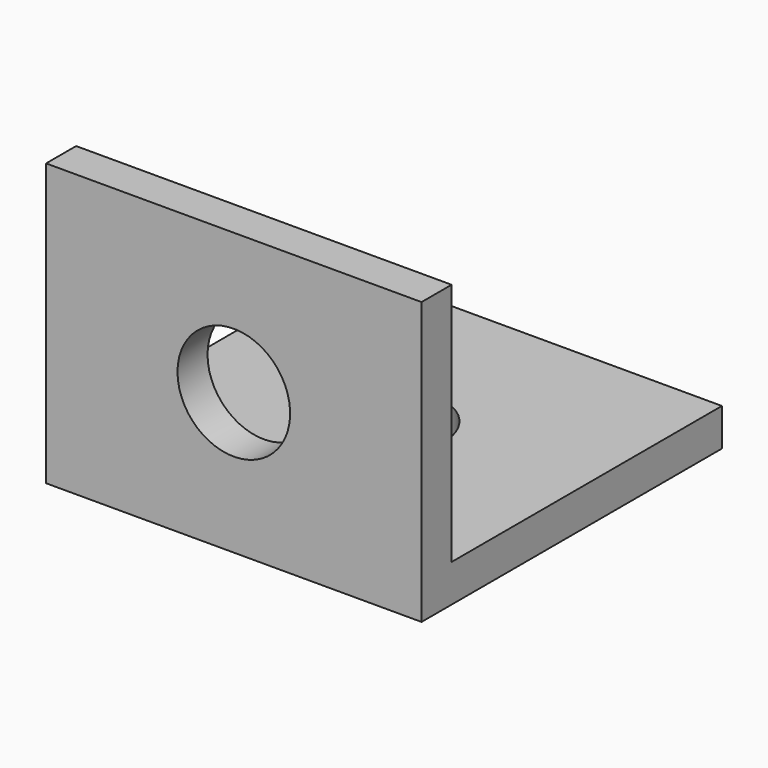
from build123d import *

# Parameters (mm, degrees)
F0_W     = 25.4
F0_H     = 19.05
F1_DEPTH = 25.4
F2_T     = -2.54
F3_R     = 3.81
F5_DEPTH = 25.4
F4_R     = 3.81
F6_DEPTH = 25.4


with BuildPart() as f1:
    # F0 (on Front) → F1 (new body)
    with BuildSketch(Plane.XZ):
        Rectangle(F0_W, F0_H)
    extrude(amount=F1_DEPTH)

    # F2
    f2_openings = [f1.faces().sort_by_distance(p)[0] for p in [
        (12.7, -12.7, 0),
        (0, -12.7, 9.525),
        (0, 0, 0),
        (-12.7, -12.7, 0),
    ]]
    offset(amount=F2_T, openings=f2_openings)

    # F3 (on face) → F5 (cut)
    with BuildSketch(Plane(origin=(0, -22.86, 0), x_dir=(-1, 0, 0), z_dir=(0, 1, 0))):
        Circle(F3_R)
    extrude(amount=-F5_DEPTH, mode=Mode.SUBTRACT)

    # F4 (on face) → F6 (cut)
    with BuildSketch(Plane.XY.offset(-6.985)):
        with Locations((0, -12.414872)):
            Circle(F4_R)
    extrude(amount=-F6_DEPTH, mode=Mode.SUBTRACT)


solid = f1.part
